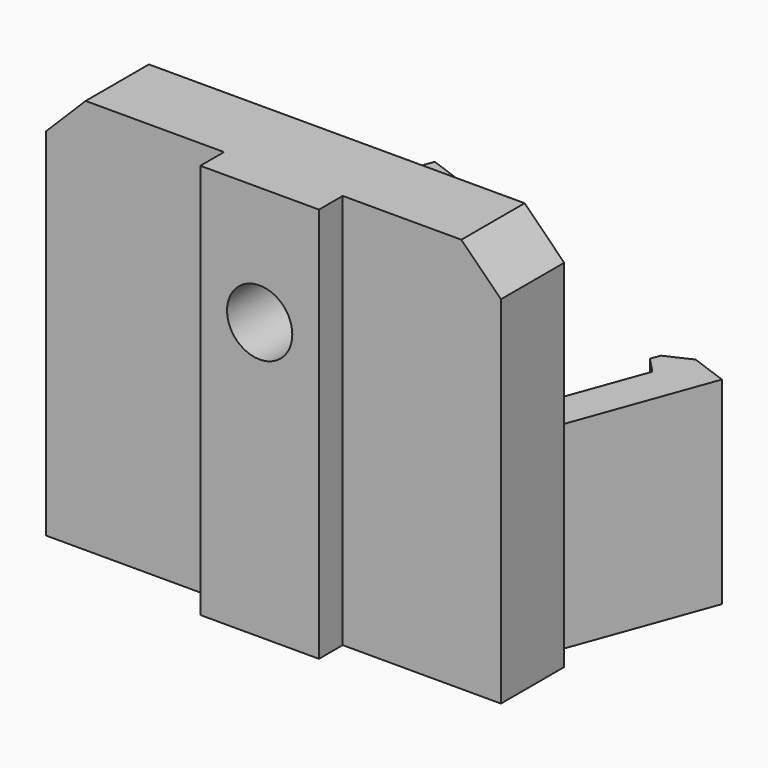
from build123d import *

# Parameters (mm, degrees)
BOX064_W                    = 3
BOX064_H                    = 2
BOX064_DEPTH                = 10
CHAMFER022010017_SIZE2      = 1
CHAMFER022010017_SIZE       = 0.5
CHAMFER022010019_SIZE       = 1
BOX062_W                    = 2
BOX062_H                    = 11
BOX062_DEPTH                = 10
BOX063_W                    = 3
BOX063_H                    = 2
BOX063_DEPTH                = 10
CHAMFER022010016_SIZE2      = 1
CHAMFER022010016_SIZE       = 0.5
CHAMFER022010018_SIZE       = 1
BOX061_W                    = 2
BOX061_H                    = 11
BOX061_DEPTH                = 10
BOX060_W                    = 21.8
BOX060_H                    = 2
BOX060_DEPTH                = 10
FUSION038_PLACEMENT_ANGLE   = 20
BOX067_W                    = 2
BOX067_H                    = 7
BOX067_DEPTH                = 10
CHAMFER022010021_SIZE2      = 0.5
CHAMFER022010021_SIZE       = 1
CYLINDER032_R               = 1.65
CYLINDER032_DEPTH           = 10
CYLINDER031_R               = 3
CYLINDER031_DEPTH           = 10
BOX065_W                    = 23
BOX065_H                    = 4
BOX065_DEPTH                = 20
CHAMFER022010022011004_SIZE = 2
BOX066_W                    = 6
BOX066_H                    = 1.5
BOX066_DEPTH                = 20


with BuildPart() as chamfer022010019:
    # Box064 → Box064 (new body)
    with BuildSketch(Plane(origin=(19, 9, 0), x_dir=(1, 0, 0), z_dir=(0, 0, 1))):
        with Locations((1.5, 1)):
            Rectangle(BOX064_W, BOX064_H)
    extrude(amount=BOX064_DEPTH)

    # Chamfer022010017
    chamfer022010017_edges = [chamfer022010019.edges().sort_by_distance(p)[0] for p in [
        (19, 9, 5),
    ]]
    chamfer022010017_side = chamfer022010019.faces().sort_by_distance((19, 10, 5))[0]
    chamfer(chamfer022010017_edges, length=CHAMFER022010017_SIZE, length2=CHAMFER022010017_SIZE2, reference=chamfer022010017_side)

    # Chamfer022010019
    chamfer022010019_edges = [chamfer022010019.edges().sort_by_distance(p)[0] for p in [
        (19, 11, 5),
    ]]
    chamfer(chamfer022010019_edges, length=CHAMFER022010019_SIZE)


with BuildPart() as fusion034:
    # Box062 → Box062 (new body)
    with BuildSketch(Plane(origin=(20, 0, 0), x_dir=(1, 0, 0), z_dir=(0, 0, 1))):
        with Locations((1, 5.5)):
            Rectangle(BOX062_W, BOX062_H)
    extrude(amount=BOX062_DEPTH)

    # Fusion034: union Chamfer022010019
    add(chamfer022010019.part)


with BuildPart() as fusion034_1:
    # Fusion034 placement: moved
    add(fusion034.part.moved(Location((-0.2, 0, 0))))


with BuildPart() as chamfer022010018:
    # Box063 → Box063 (new body)
    with BuildSketch(Plane(origin=(0, 9, 0), x_dir=(1, 0, 0), z_dir=(0, 0, 1))):
        with Locations((1.5, 1)):
            Rectangle(BOX063_W, BOX063_H)
    extrude(amount=BOX063_DEPTH)

    # Chamfer022010016
    chamfer022010016_edges = [chamfer022010018.edges().sort_by_distance(p)[0] for p in [
        (3, 9, 5),
    ]]
    chamfer022010016_side = chamfer022010018.faces().sort_by_distance((3, 10, 5))[0]
    chamfer(chamfer022010016_edges, length=CHAMFER022010016_SIZE, length2=CHAMFER022010016_SIZE2, reference=chamfer022010016_side)

    # Chamfer022010018
    chamfer022010018_edges = [chamfer022010018.edges().sort_by_distance(p)[0] for p in [
        (3, 11, 5),
    ]]
    chamfer(chamfer022010018_edges, length=CHAMFER022010018_SIZE)


with BuildPart() as fusion035:
    # Box061 → Box061 (new body)
    with BuildSketch(Plane.XY):
        with Locations((1, 5.5)):
            Rectangle(BOX061_W, BOX061_H)
    extrude(amount=BOX061_DEPTH)

    # Fusion035: union Chamfer022010018
    add(chamfer022010018.part)


with BuildPart() as fusion038:
    # Box060 → Box060 (new body)
    with BuildSketch(Plane.XY):
        with Locations((10.9, 1)):
            Rectangle(BOX060_W, BOX060_H)
    extrude(amount=BOX060_DEPTH)

    # Fusion038: union Fusion034, Fusion035
    add(fusion034_1.part)
    add(fusion035.part)


with BuildPart() as fusion038_1:
    # Fusion038 placement: moved
    add(fusion038.part.moved(Location((-11.746306, 9.21193, 0))).rotate(Axis((-11.746306, 9.21193, 0), (0, 0, -1)), FUSION038_PLACEMENT_ANGLE))


with BuildPart() as chamfer022010021:
    # Box067 → Box067 (new body)
    with BuildSketch(Plane(origin=(-12, 3, 0), x_dir=(1, 0, 0), z_dir=(0, 0, 1))):
        with Locations((1, 3.5)):
            Rectangle(BOX067_W, BOX067_H)
    extrude(amount=BOX067_DEPTH)

    # Chamfer022010021
    chamfer022010021_edges = [chamfer022010021.edges().sort_by_distance(p)[0] for p in [
        (-12, 10, 5),
    ]]
    chamfer022010021_side = chamfer022010021.faces().sort_by_distance((-12, 6.5, 5))[0]
    chamfer(chamfer022010021_edges, length=CHAMFER022010021_SIZE, length2=CHAMFER022010021_SIZE2, reference=chamfer022010021_side)


with BuildPart() as cylinder032:
    # Cylinder032 → Cylinder032 (new body)
    with BuildSketch(Plane(origin=(0, 7, 14), x_dir=(1, 0, 0), z_dir=(0, -1, 0))):
        Circle(CYLINDER032_R)
    extrude(amount=CYLINDER032_DEPTH)


with BuildPart() as cylinder031:
    # Cylinder031 → Cylinder031 (new body)
    with BuildSketch(Plane(origin=(0, 12, 14), x_dir=(1, 0, 0), z_dir=(0, -1, 0))):
        Circle(CYLINDER031_R)
    extrude(amount=CYLINDER031_DEPTH)


with BuildPart() as chamfer022010022011004:
    # Box065 → Box065 (new body)
    with BuildSketch(Plane(origin=(-12, 0, 0), x_dir=(1, 0, 0), z_dir=(0, 0, 1))):
        with Locations((11.5, 2)):
            Rectangle(BOX065_W, BOX065_H)
    extrude(amount=BOX065_DEPTH)

    # Cut024006004012005012: cut Cylinder031
    add(cylinder031.part, mode=Mode.SUBTRACT)

    # Chamfer022010022011004
    chamfer022010022011004_edges = [chamfer022010022011004.edges().sort_by_distance(p)[0] for p in [
        (-12, 2, 20),
        (11, 2, 20),
    ]]
    chamfer(chamfer022010022011004_edges, length=CHAMFER022010022011004_SIZE)


with BuildPart() as led_mount_m3:
    # Box066 → Box066 (new body)
    with BuildSketch(Plane(origin=(-3, -1.5, 0), x_dir=(1, 0, 0), z_dir=(0, 0, 1))):
        with Locations((3, 0.75)):
            Rectangle(BOX066_W, BOX066_H)
    extrude(amount=BOX066_DEPTH)

    # Fusion053: union Chamfer022010022011004
    add(chamfer022010022011004.part)

    # Cut024006004012005013: cut Cylinder032
    add(cylinder032.part, mode=Mode.SUBTRACT)

    # Fusion054: union Fusion038, Chamfer022010021
    add(fusion038_1.part)
    add(chamfer022010021.part)


solid = led_mount_m3.part
